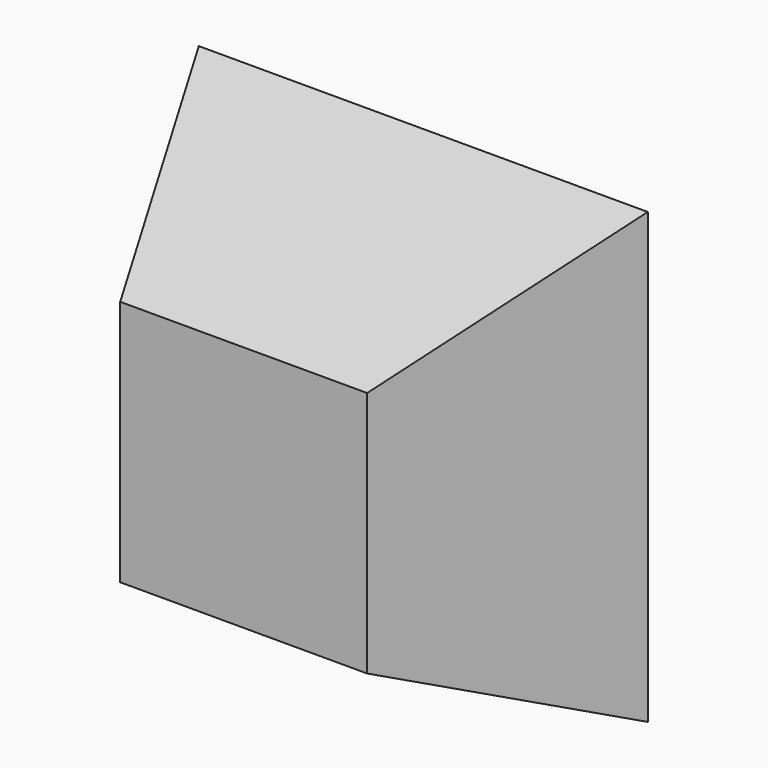
from build123d import *

# Parameters (mm, degrees)
F0_W     = 508
F0_H     = 508
F1_DEPTH = 254
F3_DEPTH = 508.001
F5_DEPTH = 508


with BuildPart() as f1:
    # F0 (on Front) → F1 (new body)
    with BuildSketch(Plane.XZ):
        with Locations((254, 254)):
            Rectangle(F0_W, F0_H)
    extrude(amount=F1_DEPTH)

    # F2 (on face) → F3 (cut, through all)
    with BuildSketch(Plane.YZ.offset(508)):
        Polygon((-254, 508), (-254, 393.7), (0, 508), align=None)
        Polygon((0, 0), (-254, 114.3), (-254, 0), align=None)
    extrude(amount=-F3_DEPTH, mode=Mode.SUBTRACT)

    # F4 (on Top) → F5 (cut)
    with BuildSketch(Plane.XY):
        Polygon((0, -254), (114.3, -254), (0, 0), align=None)
        Polygon((393.7, -254), (508, -254), (542.023063, -254), (542.023063, 0), (508, 0), align=None)
    extrude(amount=F5_DEPTH, mode=Mode.SUBTRACT)


solid = f1.part
